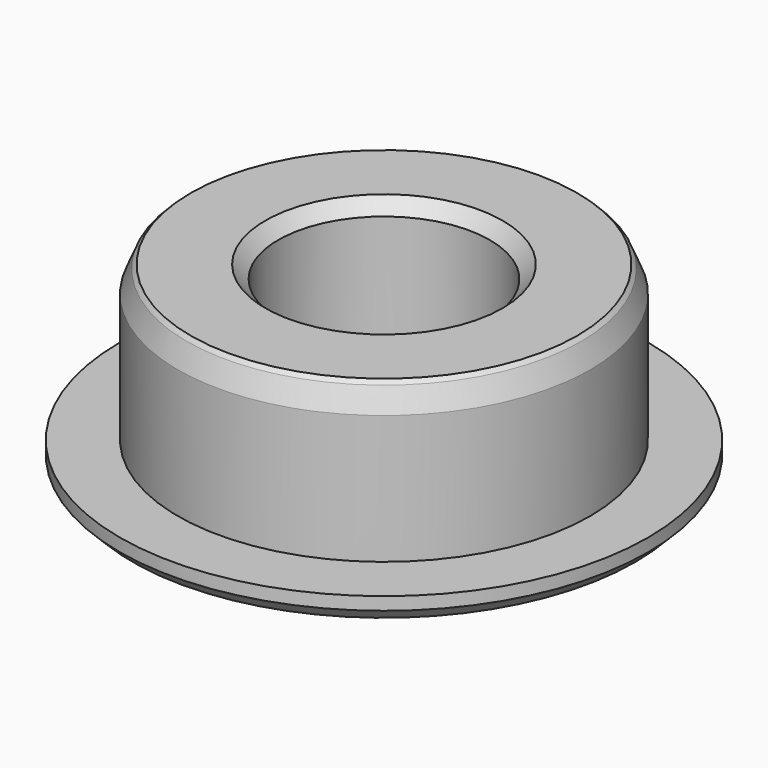
from build123d import *

# Parameters (mm, degrees)
F0_R     = 10.25
F0_R_2   = 8
F1_DEPTH = 1
F0_R_3   = 4.105
F2_DEPTH = 7
F3_SIZE  = 0.5
F4_SIZE  = 0.5
F5_SIZE  = 0.5
F6_SIZE  = 1


with BuildPart() as f1:
    # F0 (on Top) → F1 (new body)
    with BuildSketch(Plane.XY):
        Circle(F0_R)
        Circle(F0_R_2, mode=Mode.SUBTRACT)
    extrude(amount=F1_DEPTH)

    # F0 (on Top) → F2 (join)
    with BuildSketch(Plane.XY):
        Circle(F0_R_2)
        Circle(F0_R_3, mode=Mode.SUBTRACT)
    extrude(amount=F2_DEPTH)

    # F3
    f3_edges = [f1.edges().sort_by_distance(p)[0] for p in [
        (-10.25, 0, 0),
        (-4.105, 0, 7),
    ]]
    chamfer(f3_edges, length=F3_SIZE)

    # F4
    f4_edges = [f1.edges().sort_by_distance(p)[0] for p in [
        (-8, 0, 7),
    ]]
    chamfer(f4_edges, length=F4_SIZE)

    # F5
    f5_edges = [f1.edges().sort_by_distance(p)[0] for p in [
        (-8, 0, 6.5),
    ]]
    chamfer(f5_edges, length=F5_SIZE)

    # F6
    f6_edges = [f1.edges().sort_by_distance(p)[0] for p in [
        (-4.105, 0, 0),
    ]]
    chamfer(f6_edges, length=F6_SIZE)


solid = f1.part
